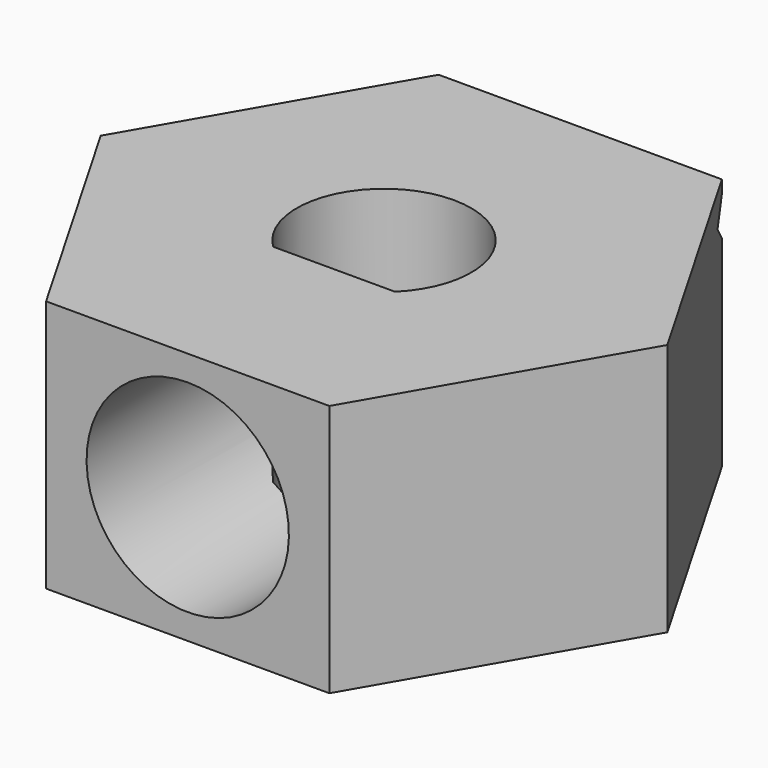
from build123d import *

# Parameters (mm, degrees)
F1_DEPTH = 5
F3_DEPTH = 12.5
F5_DEPTH = 4.85


with BuildPart() as f1:
    # F0 (on Top) → F1 (new body)
    with BuildSketch(Plane.XY):
        Polygon((-2.800149, 4.85), (-5.600298, 0), (-2.800149, -4.85), (2.800149, -4.85), (5.600298, 0), (2.800149, 4.85), align=None)
        with BuildLine():
            ThreePointArc((-1.204326, -1.235), (0, 1.725), (1.204326, -1.235))
            Line((1.204326, -1.235), (-1.204326, -1.235))
        make_face(mode=Mode.SUBTRACT)
    extrude(amount=F1_DEPTH)

    # F2 (on Right) → F3 (cut, symmetric)
    with BuildSketch(Plane.YZ):
        Polygon((4.85, 3.973057), (4.85, 4.75), (4.461528, 4.361528), align=None)
    extrude(amount=F3_DEPTH, both=True, mode=Mode.SUBTRACT)

    # F4 (on face) → F5 (cut, through all)
    with BuildSketch(Plane.XZ.offset(4.85)):
        with BuildLine():
            ThreePointArc((1.147153, 4.138304), (0, 4.5), (-1.147153, 4.138304))
            ThreePointArc((-1.147153, 4.138304), (0, 0.5), (1.147153, 4.138304))
        make_face()
    extrude(amount=-F5_DEPTH, mode=Mode.SUBTRACT)


solid = f1.part
